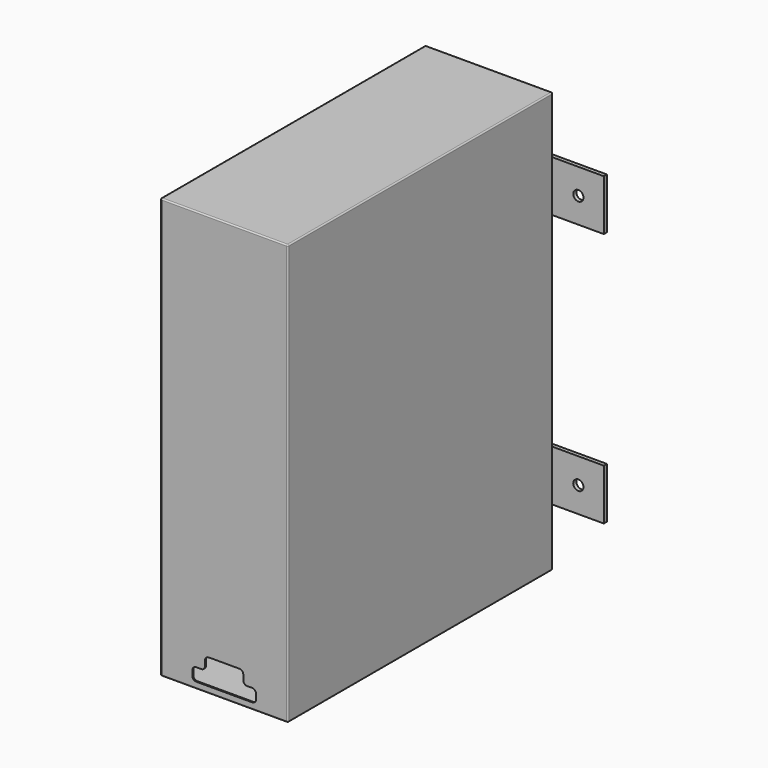
from build123d import *

# Parameters (mm, degrees)
F0_W     = 100
F0_H     = 260
F1_DEPTH = 165
F2_T     = -1
F4_DEPTH = 220
F5_R     = 1
F6_W     = 180
F6_H     = 40
F6_R     = 4
F7_DEPTH = 3


with BuildPart() as f1:
    # F0 (on Top) → F1 (new body, symmetric)
    with BuildSketch(Plane.XY):
        Rectangle(F0_W, F0_H)
    extrude(amount=F1_DEPTH, both=True)

    # F2 (hollow: no face is removed)
    offset(amount=F2_T, mode=Mode.SUBTRACT)

    # F3 (on face) → F4 (cut, symmetric)
    with BuildSketch(Plane.XZ.offset(130)):
        with BuildLine():
            Line((-18, -150), (-22, -150))
            ThreePointArc((-22, -150), (-24.1213203436, -150.8786796564), (-25, -153))
            Line((-25, -153), (-25, -157))
            ThreePointArc((-25, -157), (-24.1213203436, -159.1213203436), (-22, -160))
            Line((-22, -160), (22, -160))
            ThreePointArc((22, -160), (24.1213203436, -159.1213203436), (25, -157))
            Line((25, -157), (25, -153))
            ThreePointArc((25, -153), (24.1213203436, -150.8786796564), (22, -150))
            Line((22, -150), (18, -150))
            ThreePointArc((18, -150), (15.8786796564, -149.1213203436), (15, -147))
            Line((15, -147), (15, -143))
            ThreePointArc((15, -143), (14.1213203436, -140.8786796564), (12, -140))
            Line((12, -140), (-12, -140))
            ThreePointArc((-12, -140), (-14.1213203436, -140.8786796564), (-15, -143))
            Line((-15, -143), (-15, -147))
            ThreePointArc((-15, -147), (-15.8786796564, -149.1213203436), (-18, -150))
        make_face()
    extrude(amount=F4_DEPTH, both=True, mode=Mode.SUBTRACT)

    # F5
    f5_edges = [f1.edges().sort_by_distance(p)[0] for p in [
        (50, 0, -165),
        (50, 130, 0),
        (50, 0, 165),
        (50, -130, 0),
        (0, 130, 165),
        (-50, 0, 165),
        (0, -130, 165),
        (-50, 130, 0),
        (-50, 0, -165),
        (-50, -130, 0),
        (0, 130, -165),
        (0, -130, -165),
    ]]
    fillet(f5_edges, radius=F5_R)

    # F6 (on face) → F7 (join)
    with BuildSketch(Plane(origin=(0, 130, 0), x_dir=(-1, 0, 0), z_dir=(0, 1, 0))):
        with Locations((0, 100)):
            Rectangle(F6_W, F6_H)
        with Locations((-70, 100)):
            Circle(F6_R, mode=Mode.SUBTRACT)
        with Locations((70, 100)):
            Circle(F6_R, mode=Mode.SUBTRACT)
        with Locations((0, -100)):
            Rectangle(F6_W, F6_H)
        with Locations((-70, -100)):
            Circle(F6_R, mode=Mode.SUBTRACT)
        with Locations((70, -100)):
            Circle(F6_R, mode=Mode.SUBTRACT)
    extrude(amount=F7_DEPTH)


solid = f1.part
